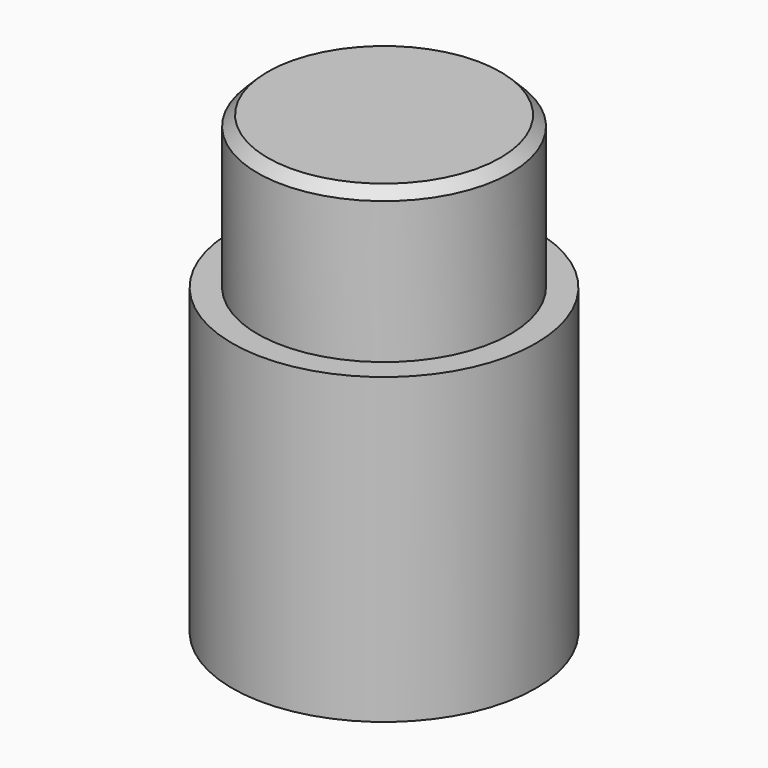
from build123d import *

# Parameters (mm, degrees)
SKETCH001_W  = 2.9
SKETCH001_H  = 2.9
POCKET_DEPTH = 3
CHAMFER_SIZE = 0.2


with BuildPart() as part:
    # Sketch → Revolution (revolve)
    with BuildSketch(Plane.XZ):
        Polygon((0, 9), (2.5, 9), (2.5, 6), (3, 6), (3, 0), (0, 0), align=None)
    revolve(axis=Axis((0, 0, 0), (0, 0, 1)))

    # Sketch001 (on Face5 of Revolution) → Pocket (cut)
    with BuildSketch(Plane(origin=(0, 0, 0), x_dir=(1, 0, 0), z_dir=(0, 0, -1))):
        Rectangle(SKETCH001_W, SKETCH001_H)
    extrude(amount=-POCKET_DEPTH, mode=Mode.SUBTRACT)

    # Chamfer
    chamfer_edges = [part.edges().sort_by_distance(p)[0] for p in [
        (-2.5, 0, 9),
    ]]
    chamfer(chamfer_edges, length=CHAMFER_SIZE)


solid = part.part
